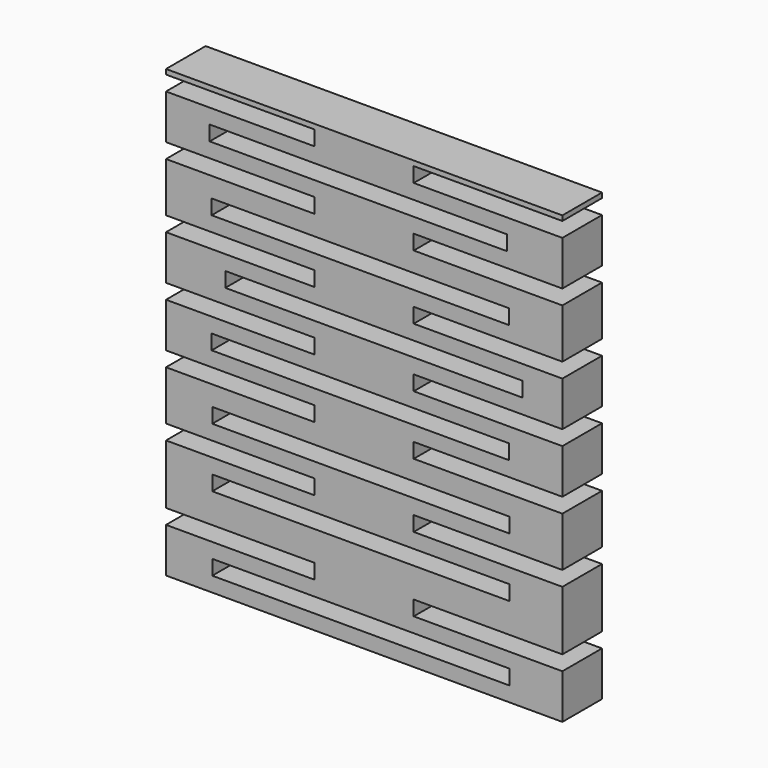
from build123d import *

# Parameters (mm, degrees)
F1_DEPTH = 10
F2_W     = 30
F2_H     = 3
F2_W_2   = 60
F3_DEPTH = 25
F4_W     = 30
F4_H     = 3
F4_W_2   = 60
F5_DEPTH = 25


with BuildPart() as f1:
    # F0 (on Front) → F1 (new body)
    with BuildSketch(Plane.XZ):
        Polygon((-40, -40), (0, -40), (0, -37), (-30.663718, -37), (-30.663718, -34), (0, -34), (0, -22), (-30.663718, -22), (-30.663718, -19), (-21.106195, -19), (-20.50885, -19), (0, -19), (0, -10), (-30.663718, -10), (-30.663718, -7), (0, -7), (0, 50), (-40, 50), (-40, -13), (-10, -13), (-10, -16), (-20.50885, -16), (-21.106195, -16), (-40, -16), (-40, -28), (-10, -28), (-10, -31), (-40, -31), align=None)
        Polygon((0, -40), (40, -40), (40, -31), (10, -31), (10, -28), (40, -28), (40, -16), (10, -16), (10, -13), (40, -13), (40, 50), (0, 50), (0, -7), (29.336282, -7), (29.336282, -10), (0, -10), (0, -19), (29.336282, -19), (29.336282, -22), (0, -22), (0, -34), (29.336282, -34), (29.336282, -37), (0, -37), align=None)
    extrude(amount=F1_DEPTH)

    # F2 (on face) → F3 (cut)
    with BuildSketch(Plane.XZ.offset(10)):
        with Locations((-25, -1.5)):
            Rectangle(F2_W, F2_H)
        with Locations((25, -1.5)):
            Rectangle(F2_W, F2_H)
        with Locations((-0.789474, 4.5)):
            Rectangle(F2_W_2, F2_H)
        with Locations((-25, 10.5)):
            Rectangle(F2_W, F2_H)
        with Locations((25, 10.5)):
            Rectangle(F2_W, F2_H)
        with Locations((1.97369, 16.5)):
            Rectangle(F2_W_2, F2_H)
        with Locations((-25, 22.5)):
            Rectangle(F2_W, F2_H)
        with Locations((25, 22.5)):
            Rectangle(F2_W, F2_H)
        with Locations((-0.789474, 28.5)):
            Rectangle(F2_W_2, F2_H)
    extrude(amount=-F3_DEPTH, mode=Mode.SUBTRACT)

    # F4 (on face) → F5 (cut)
    with BuildSketch(Plane.XZ.offset(10)):
        with Locations((-25, 35.5)):
            Rectangle(F4_W, F4_H)
        with Locations((25, 35.5)):
            Rectangle(F4_W, F4_H)
        with Locations((-1.184211, 41.5)):
            Rectangle(F4_W_2, F4_H)
        with Locations((-25, 47.5)):
            Rectangle(F4_W, F4_H)
        with Locations((25, 47.5)):
            Rectangle(F4_W, F4_H)
    extrude(amount=-F5_DEPTH, mode=Mode.SUBTRACT)


solid = f1.part
